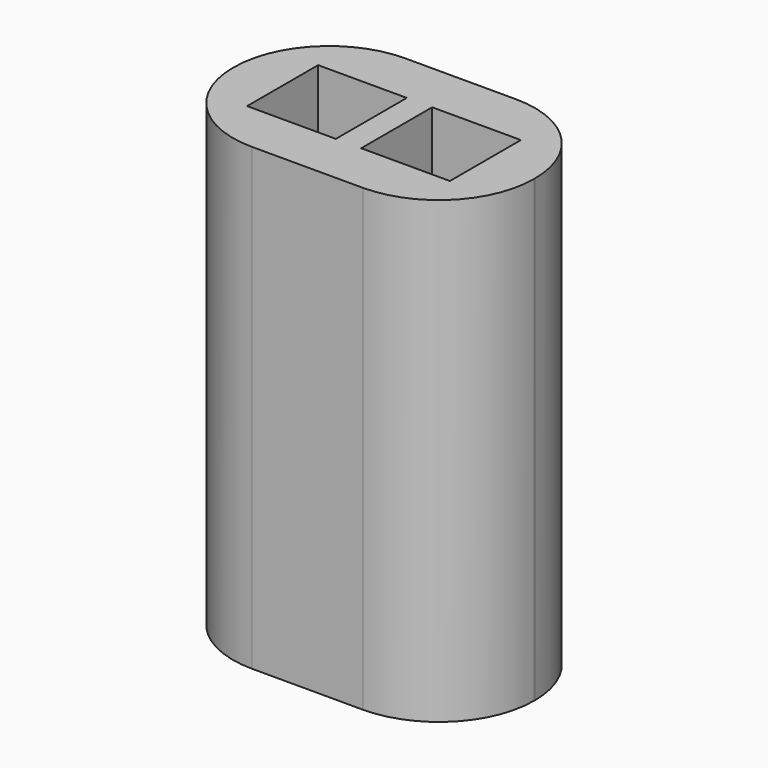
from build123d import *

# Parameters (mm, degrees)
SKETCH_W        = 9.5
SKETCH_H        = 6.05
PAD_DEPTH       = 14.5
FILLET_R        = 3
SKETCH001_R     = 1
POCKET_DEPTH    = 0.5
SKETCH003_W     = 2.8
SKETCH003_H     = 2.8
POCKET001_DEPTH = 14


with BuildPart() as part:
    # Sketch → Pad (new body)
    with BuildSketch(Plane.XY):
        Rectangle(SKETCH_W, SKETCH_H)
    extrude(amount=PAD_DEPTH)

    # Fillet
    fillet_edges = [part.edges().sort_by_distance(p)[0] for p in [
        (-4.75, -3.025, 7.25),
        (4.75, -3.025, 7.25),
        (4.75, 3.025, 7.25),
        (-4.75, 3.025, 7.25),
    ]]
    fillet(fillet_edges, radius=FILLET_R)

    # Sketch001 (on Face2 of Fillet) → Pocket (cut)
    with BuildSketch(Plane(origin=(0, 0, 0), x_dir=(1, 0, 0), z_dir=(0, 0, -1))):
        with Locations((1.8, 0)):
            Circle(SKETCH001_R)
        with Locations((-1.8, 0)):
            Circle(SKETCH001_R)
    extrude(amount=-POCKET_DEPTH, mode=Mode.SUBTRACT)

    # Sketch003 (on Face14 of Pocket) → Pocket001 (cut)
    with BuildSketch(Plane(origin=(0, 0, 0.5), x_dir=(1, 0, 0), z_dir=(0, 0, -1))):
        with Locations((1.8, 0)):
            Rectangle(SKETCH003_W, SKETCH003_H)
        with Locations((-1.8, 0)):
            Rectangle(SKETCH003_W, SKETCH003_H)
    extrude(amount=-POCKET001_DEPTH, mode=Mode.SUBTRACT)


solid = part.part
